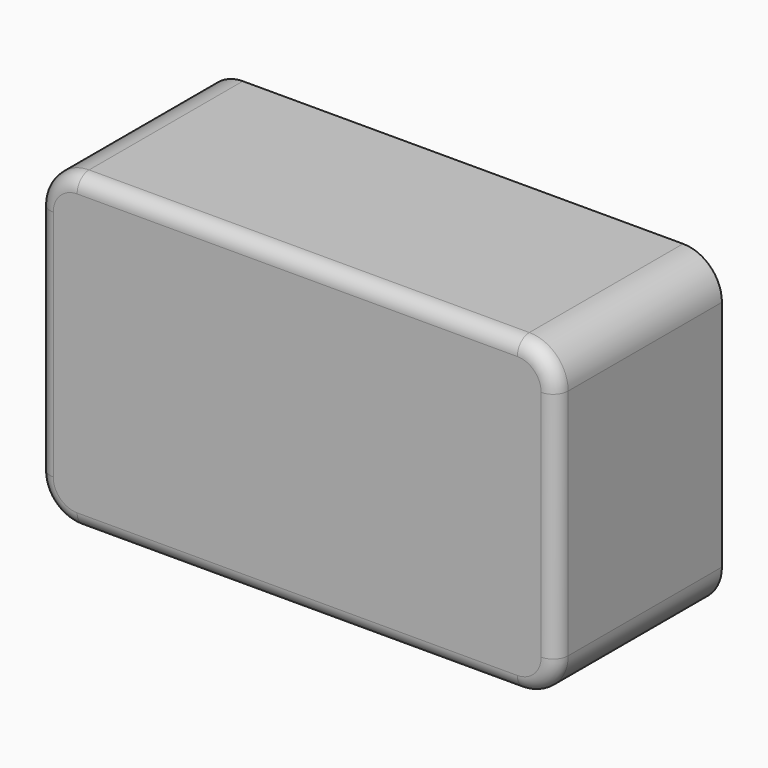
from build123d import *

# Parameters (mm, degrees)
F1_DEPTH = 25.4
F2_R     = 3.6792614691


with BuildPart() as f1:
    # F0 (on Front) → F1 (new body, symmetric)
    with BuildSketch(Plane.XZ):
        with BuildLine():
            ThreePointArc((63.5, 28.575), (60.7101920908, 35.3101920908), (53.975, 38.1))
            Line((53.975, 38.1), (-53.975, 38.1))
            ThreePointArc((-53.975, 38.1), (-60.7101920908, 35.3101920908), (-63.5, 28.575))
            Line((-63.5, 28.575), (-63.5, -28.575))
            ThreePointArc((-63.5, -28.575), (-60.7101920908, -35.3101920908), (-53.975, -38.1))
            Line((-53.975, -38.1), (53.975, -38.1))
            ThreePointArc((53.975, -38.1), (60.7101920908, -35.3101920908), (63.5, -28.575))
            Line((63.5, -28.575), (63.5, 28.575))
        make_face()
    extrude(amount=F1_DEPTH, both=True)

    # F2
    f2_edges = [f1.edges().sort_by_distance(p)[0] for p in [
        (0, -25.4, 38.1),
    ]]
    fillet(f2_edges, radius=F2_R)


solid = f1.part
